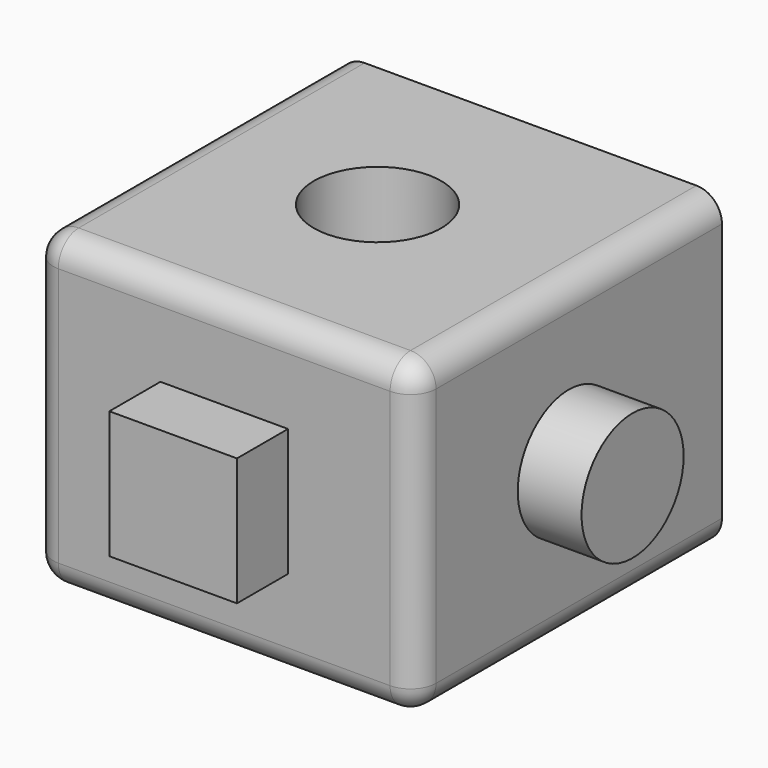
from build123d import *

# Parameters (mm, degrees)
F0_W     = 76.2
F0_H     = 61.731871
F1_DEPTH = 76.2
F4_R     = 12.695575
F5_DEPTH = 12.7
F7_W     = 25.4
F7_H     = 25.4
F8_DEPTH = 12.7
F10_D    = 25.4
F11_R    = 5.08
F12_R    = 5.08
F13_R    = 5.08
F14_R    = 5.08


with BuildPart() as f1:
    # F0 (on Front) → F1 (new body)
    with BuildSketch(Plane.XZ):
        with Locations((38.1, 30.865935)):
            Rectangle(F0_W, F0_H)
    extrude(amount=F1_DEPTH)

    # F4 (on face) → F5 (join)
    with BuildSketch(Plane.YZ.offset(76.2)):
        with Locations((-38.1, 30.42659)):
            Circle(F4_R)
    extrude(amount=F5_DEPTH)

    # F7 (on face) → F8 (join)
    with BuildSketch(Plane.XZ.offset(76.2)):
        with Locations((38.1, 30.749847)):
            Rectangle(F7_W, F7_H)
    extrude(amount=F8_DEPTH)

    # F10 (through all)
    with Locations(Plane.XY.offset(61.731871)):
        with Locations((36.42799, -35.96206)):
            Hole(F10_D / 2)

    # F11
    f11_edges = [f1.edges().sort_by_distance(p)[0] for p in [
        (38.1, -76.2, 61.731871),
    ]]
    fillet(f11_edges, radius=F11_R)

    # F12
    f12_edges = [f1.edges().sort_by_distance(p)[0] for p in [
        (76.2, -35.56, 61.731871),
    ]]
    fillet(f12_edges, radius=F12_R)

    # F13
    f13_edges = [f1.edges().sort_by_distance(p)[0] for p in [
        (0, -35.56, 61.731871),
    ]]
    fillet(f13_edges, radius=F13_R)

    # F14
    f14_edges = [f1.edges().sort_by_distance(p)[0] for p in [
        (38.1, -76.2, 0),
    ]]
    fillet(f14_edges, radius=F14_R)


solid = f1.part
